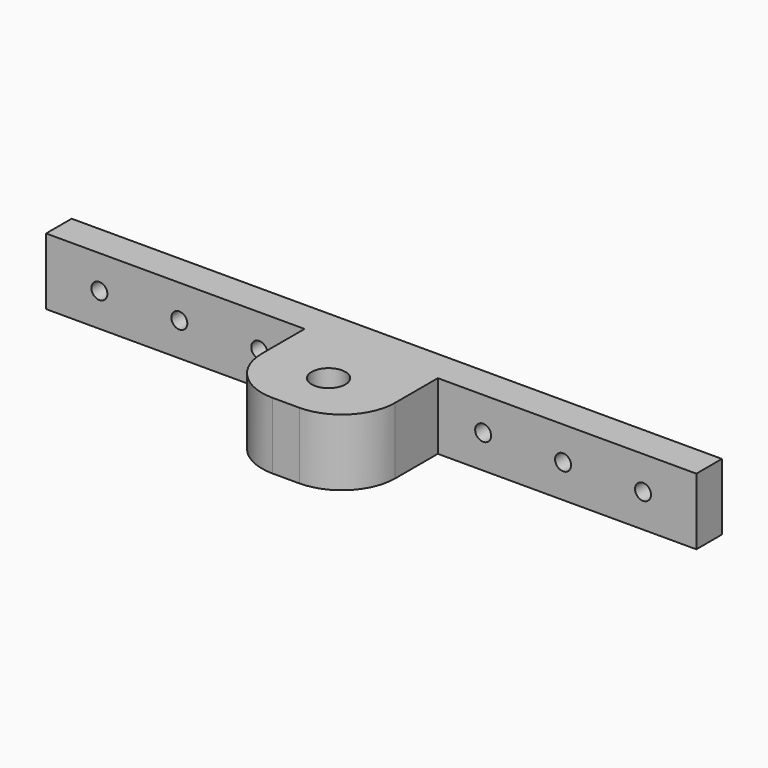
from build123d import *

# Parameters (mm, degrees)
F0_W     = 244
F0_H     = 25
F1_DEPTH = 12
F2_W     = 50
F2_H     = 25
F3_DEPTH = 40
F4_R     = 6.35
F5_DEPTH = 25.001
F6_R     = 20
F7_R     = 20
F8_R     = 3
F9_DEPTH = 52.001


with BuildPart() as f1:
    # F0 (on Front) → F1 (new body)
    with BuildSketch(Plane.XZ):
        with Locations((14.424432, -12.022949)):
            Rectangle(F0_W, F0_H)
    extrude(amount=F1_DEPTH)

    # F2 (on face) → F3 (join)
    with BuildSketch(Plane.XZ.offset(12)):
        with Locations((14.424432, -12.022949)):
            Rectangle(F2_W, F2_H)
    extrude(amount=F3_DEPTH)

    # F4 (on face) → F5 (cut, through all)
    with BuildSketch(Plane.XY.offset(0.477051)):
        with Locations((14.424432, -32)):
            Circle(F4_R)
    extrude(amount=-F5_DEPTH, mode=Mode.SUBTRACT)

    # F6
    f6_edges = [f1.edges().sort_by_distance(p)[0] for p in [
        (-10.575568, -52, -12.022949),
    ]]
    fillet(f6_edges, radius=F6_R)

    # F7
    f7_edges = [f1.edges().sort_by_distance(p)[0] for p in [
        (39.424432, -52, -12.022949),
    ]]
    fillet(f7_edges, radius=F7_R)

    # F8 (on face) → F9 (cut, through all)
    with BuildSketch(Plane(origin=(0, 0, 0), x_dir=(-1, 0, 0), z_dir=(0, 1, 0))):
        with Locations((87.575568, -12.022949)):
            Circle(F8_R)
        with Locations((57.575568, -12.022949)):
            Circle(F8_R)
        with Locations((-86.424432, -12.022949)):
            Circle(F8_R)
        with Locations((-116.424432, -12.022949)):
            Circle(F8_R)
        with Locations((-56.424432, -12.022949)):
            Circle(F8_R)
        with Locations((27.575568, -12.022949)):
            Circle(F8_R)
    extrude(amount=-F9_DEPTH, mode=Mode.SUBTRACT)


solid = f1.part
